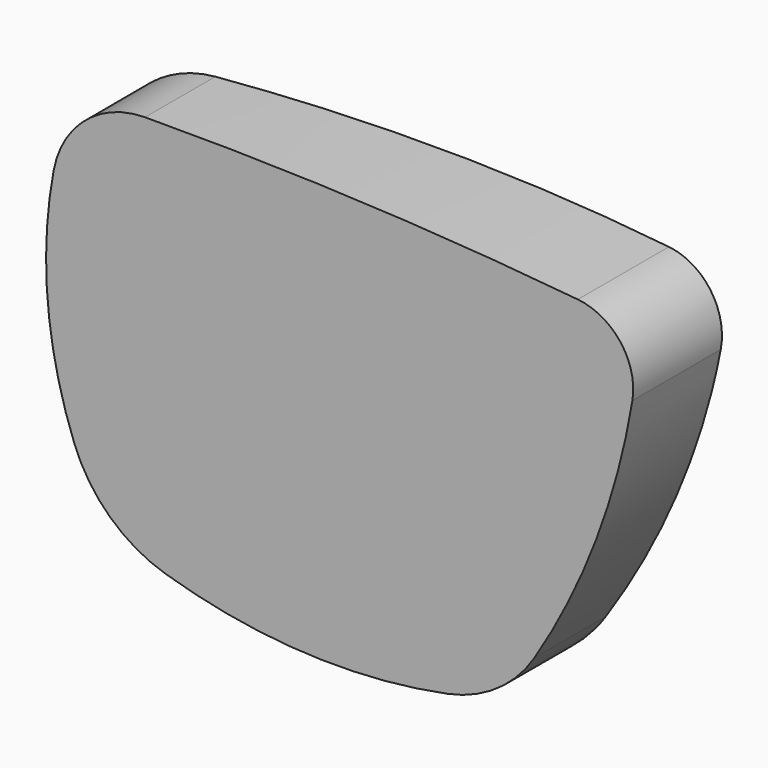
from build123d import *

# Parameters (mm, degrees)
F1_DEPTH      = 25
F4_ANGLE_BACK = 15
F4_ANGLE      = 30
F6_DEPTH      = 4.2


with BuildPart() as f1:
    # F0 (on Front) → F1 (new body)
    with BuildSketch(Plane.XZ):
        with BuildLine():
            ThreePointArc((26.3431364877, 8.5707053028), (25.1879544986, 13.2060879092), (21.0133194591, 15.5285089783))
            ThreePointArc((21.0133194591, 15.5285089783), (-0.0894086287, 17.0460813995), (-21.2428583947, 17.4457334904))
            ThreePointArc((-21.2428583947, 17.4457334904), (-27.0252643869, 15.3277245971), (-30.1521339791, 10.0225509634))
            ThreePointArc((-30.1521339791, 10.0225509634), (-30.737948683, -1.5598670025), (-28.1338702514, -12.8609448416))
            ThreePointArc((-28.1338702514, -12.8609448416), (-24.6579753008, -18.0246958087), (-19.2665178824, -21.1357015406))
            ThreePointArc((-19.2665178824, -21.1357015406), (-5.5690318774, -23.5254263951), (8.2977543738, -22.503591381))
            ThreePointArc((8.2977543738, -22.503591381), (13.1377213939, -20.4559972218), (16.7715565718, -16.6595298512))
            ThreePointArc((16.7715565718, -16.6595298512), (22.8064529235, -4.5182850542), (26.3431364877, 8.5707053028))
        make_face()
    extrude(amount=-F1_DEPTH)


with BuildPart() as f4:
    # F3 (on offset) → F4 (revolve)
    with BuildSketch(Plane.XY.offset(22), mode=Mode.PRIVATE) as f4_sk:
        with BuildLine():
            Line((-282, -293), (318, -293))
            ThreePointArc((318, -293), (18, 7), (-282, -293))
        make_face()
    revolve(f4_sk.sketch.rotate(Axis((18, -293, 22), (1, 0, 0)), -F4_ANGLE_BACK), axis=Axis((18, -293, 22), (1, 0, 0)), revolution_arc=F4_ANGLE)


with BuildPart() as f1_1:
    add(f1.part)

    # F5: intersect F4
    add(f4.part, mode=Mode.INTERSECT)

    # F6 (add): a face of the model
    f6_faces = [f1_1.faces().sort_by_distance(p)[0] for p in [
        (-3.417701973, 0, -1.7255808381),
    ]]
    extrude(f6_faces, amount=F6_DEPTH)


solid = f1_1.part
